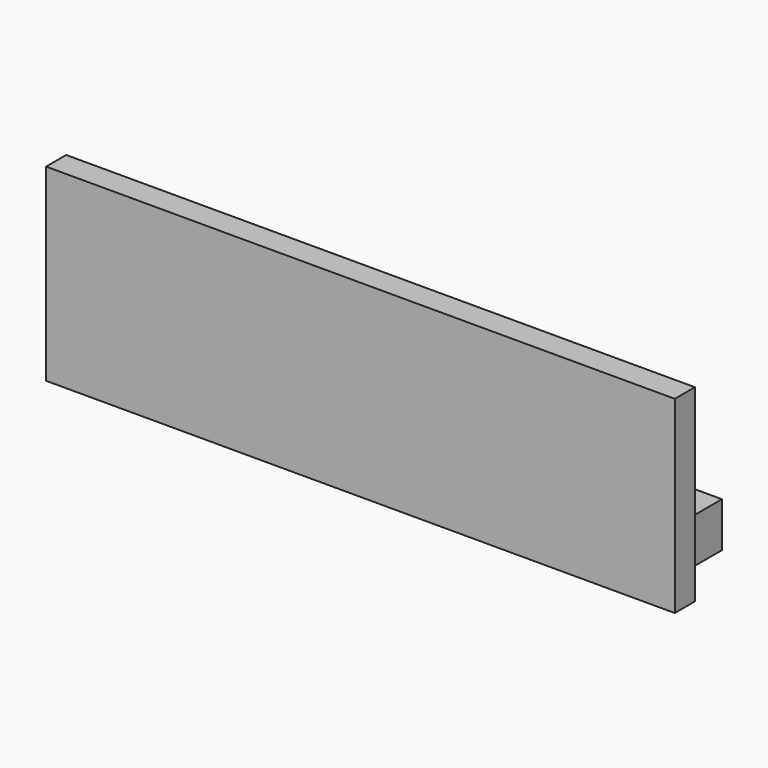
from build123d import *

# Parameters (mm, degrees)
BOX_W        = 1000
BOX_H        = 40
BOX_DEPTH    = 300
BOX001_W     = 47.142857
BOX001_H     = 128.571429
BOX001_DEPTH = 71.428571
BOX002_W     = 47.142857
BOX002_H     = 128.571429
BOX002_DEPTH = 71.428571
BOX003_W     = 47.142857
BOX003_H     = 128.571429
BOX003_DEPTH = 71.428571
BOX004_W     = 47.142857
BOX004_H     = 128.571429
BOX004_DEPTH = 71.428571
BOX005_W     = 47.142857
BOX005_H     = 128.571429
BOX005_DEPTH = 71.428571
BOX006_W     = 47.142857
BOX006_H     = 128.571429
BOX006_DEPTH = 71.428571
BOX007_W     = 47.142857
BOX007_H     = 128.571429
BOX007_DEPTH = 71.428571
BOX008_W     = 47.142857
BOX008_H     = 128.571429
BOX008_DEPTH = 71.428571
BOX009_W     = 47.142857
BOX009_H     = 128.571429
BOX009_DEPTH = 71.428571
BOX010_W     = 47.142857
BOX010_H     = 128.571429
BOX010_DEPTH = 71.428571
BOX011_W     = 47.142857
BOX011_H     = 128.571429
BOX011_DEPTH = 71.428571
BOX012_W     = 47.142857
BOX012_H     = 128.571429
BOX012_DEPTH = 71.428571
BOX013_W     = 47.142857
BOX013_H     = 128.571429
BOX013_DEPTH = 71.428571
BOX014_W     = 47.142857
BOX014_H     = 128.571429
BOX014_DEPTH = 71.428571
BOX015_W     = 47.142857
BOX015_H     = 128.571429
BOX015_DEPTH = 71.428571


with BuildPart() as stand:
    # Box → Box (new body)
    with BuildSketch(Plane(origin=(-404, -30, 0), x_dir=(1, 0, 0), z_dir=(0, 0, 1))):
        with Locations((500, 20)):
            Rectangle(BOX_W, BOX_H)
    extrude(amount=BOX_DEPTH)


with BuildPart() as box001:
    # Box001 → Box001 (new body)
    with BuildSketch(Plane(origin=(-362, 10, 0), x_dir=(1, 0, 0), z_dir=(0, 0, 1))):
        with Locations((23.571428, 64.285714)):
            Rectangle(BOX001_W, BOX001_H)
    extrude(amount=BOX001_DEPTH)


with BuildPart() as box002:
    # Box002 → Box002 (new body)
    with BuildSketch(Plane(origin=(-302, 10, 0), x_dir=(1, 0, 0), z_dir=(0, 0, 1))):
        with Locations((23.571428, 64.285714)):
            Rectangle(BOX002_W, BOX002_H)
    extrude(amount=BOX002_DEPTH)


with BuildPart() as box003:
    # Box003 → Box003 (new body)
    with BuildSketch(Plane(origin=(-235, 10, 0), x_dir=(1, 0, 0), z_dir=(0, 0, 1))):
        with Locations((23.571428, 64.285714)):
            Rectangle(BOX003_W, BOX003_H)
    extrude(amount=BOX003_DEPTH)


with BuildPart() as box004:
    # Box004 → Box004 (new body)
    with BuildSketch(Plane(origin=(-171, 10, 0), x_dir=(1, 0, 0), z_dir=(0, 0, 1))):
        with Locations((23.571428, 64.285714)):
            Rectangle(BOX004_W, BOX004_H)
    extrude(amount=BOX004_DEPTH)


with BuildPart() as box005:
    # Box005 → Box005 (new body)
    with BuildSketch(Plane(origin=(-115, 10, 0), x_dir=(1, 0, 0), z_dir=(0, 0, 1))):
        with Locations((23.571428, 64.285714)):
            Rectangle(BOX005_W, BOX005_H)
    extrude(amount=BOX005_DEPTH)


with BuildPart() as box006:
    # Box006 → Box006 (new body)
    with BuildSketch(Plane(origin=(-56, 10, 0), x_dir=(1, 0, 0), z_dir=(0, 0, 1))):
        with Locations((23.571428, 64.285714)):
            Rectangle(BOX006_W, BOX006_H)
    extrude(amount=BOX006_DEPTH)


with BuildPart() as box007:
    # Box007 → Box007 (new body)
    with BuildSketch(Plane(origin=(-4, 10, 0), x_dir=(1, 0, 0), z_dir=(0, 0, 1))):
        with Locations((23.571428, 64.285714)):
            Rectangle(BOX007_W, BOX007_H)
    extrude(amount=BOX007_DEPTH)


with BuildPart() as box008:
    # Box008 → Box008 (new body)
    with BuildSketch(Plane(origin=(55, 10, 0), x_dir=(1, 0, 0), z_dir=(0, 0, 1))):
        with Locations((23.571428, 64.285714)):
            Rectangle(BOX008_W, BOX008_H)
    extrude(amount=BOX008_DEPTH)


with BuildPart() as box009:
    # Box009 → Box009 (new body)
    with BuildSketch(Plane(origin=(111, 10, 0), x_dir=(1, 0, 0), z_dir=(0, 0, 1))):
        with Locations((23.571428, 64.285714)):
            Rectangle(BOX009_W, BOX009_H)
    extrude(amount=BOX009_DEPTH)


with BuildPart() as box010:
    # Box010 → Box010 (new body)
    with BuildSketch(Plane(origin=(172, 10, 0), x_dir=(1, 0, 0), z_dir=(0, 0, 1))):
        with Locations((23.571428, 64.285714)):
            Rectangle(BOX010_W, BOX010_H)
    extrude(amount=BOX010_DEPTH)


with BuildPart() as box011:
    # Box011 → Box011 (new body)
    with BuildSketch(Plane(origin=(232, 10, 0), x_dir=(1, 0, 0), z_dir=(0, 0, 1))):
        with Locations((23.571428, 64.285714)):
            Rectangle(BOX011_W, BOX011_H)
    extrude(amount=BOX011_DEPTH)


with BuildPart() as box012:
    # Box012 → Box012 (new body)
    with BuildSketch(Plane(origin=(295, 10, 0), x_dir=(1, 0, 0), z_dir=(0, 0, 1))):
        with Locations((23.571428, 64.285714)):
            Rectangle(BOX012_W, BOX012_H)
    extrude(amount=BOX012_DEPTH)


with BuildPart() as box013:
    # Box013 → Box013 (new body)
    with BuildSketch(Plane(origin=(358, 10, 0), x_dir=(1, 0, 0), z_dir=(0, 0, 1))):
        with Locations((23.571428, 64.285714)):
            Rectangle(BOX013_W, BOX013_H)
    extrude(amount=BOX013_DEPTH)


with BuildPart() as box014:
    # Box014 → Box014 (new body)
    with BuildSketch(Plane(origin=(426, 10, 0), x_dir=(1, 0, 0), z_dir=(0, 0, 1))):
        with Locations((23.571428, 64.285714)):
            Rectangle(BOX014_W, BOX014_H)
    extrude(amount=BOX014_DEPTH)


with BuildPart() as box015:
    # Box015 → Box015 (new body)
    with BuildSketch(Plane(origin=(489, 10, 0), x_dir=(1, 0, 0), z_dir=(0, 0, 1))):
        with Locations((23.571428, 64.285714)):
            Rectangle(BOX015_W, BOX015_H)
    extrude(amount=BOX015_DEPTH)


solid = Compound([stand.part, box001.part, box002.part, box003.part, box004.part, box005.part, box006.part, box007.part, box008.part, box009.part, box010.part, box011.part, box012.part, box013.part, box014.part, box015.part])
